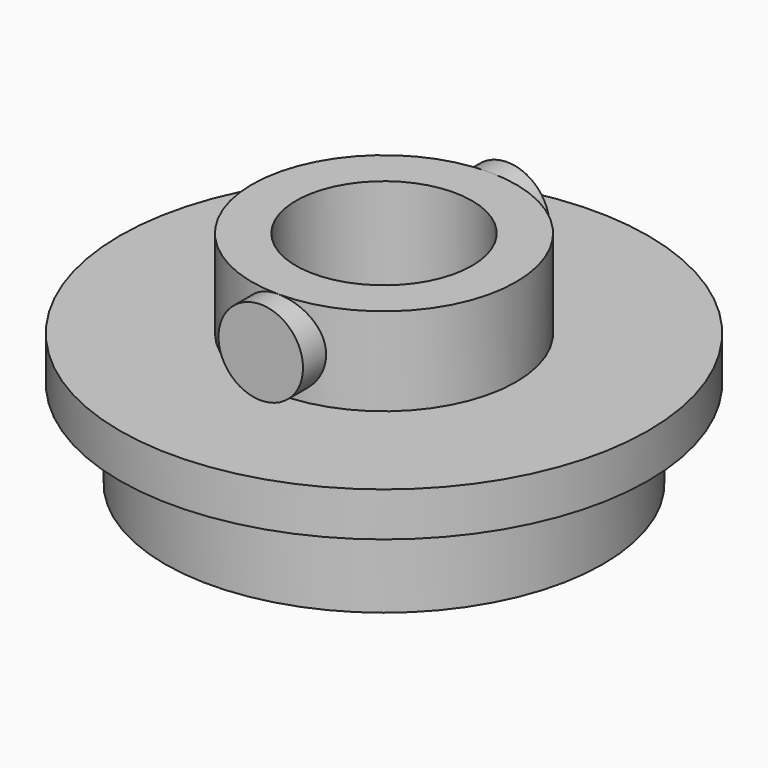
from build123d import *

# Parameters (mm, degrees)
F0_R     = 7.8994
F1_DEPTH = 3.175
F2_R     = 9.525
F3_DEPTH = 1.5875
F4_R     = 4.7625
F5_DEPTH = 3.175
F6_R     = 1.524
F7_DEPTH = 5.55625
F8_R     = 3.175
F9_DEPTH = 7.9375


with BuildPart() as f1:
    # F0 (on Top) → F1 (new body)
    with BuildSketch(Plane.XY):
        Circle(F0_R)
    extrude(amount=F1_DEPTH)

    # F2 (on face) → F3 (join)
    with BuildSketch(Plane.XY.offset(3.175)):
        Circle(F2_R)
    extrude(amount=F3_DEPTH)

    # F4 (on face) → F5 (join)
    with BuildSketch(Plane.XY.offset(4.7625)):
        Circle(F4_R)
    extrude(amount=F5_DEPTH)

    # F6 (on Front) → F7 (join, symmetric)
    with BuildSketch(Plane.XZ):
        with Locations((0, 6.4135)):
            Circle(F6_R)
    extrude(amount=F7_DEPTH, both=True)

    # F8 (on face) → F9 (cut, through all)
    with BuildSketch(Plane.XY.offset(7.9375)):
        Circle(F8_R)
    extrude(amount=-F9_DEPTH, mode=Mode.SUBTRACT)


solid = f1.part
